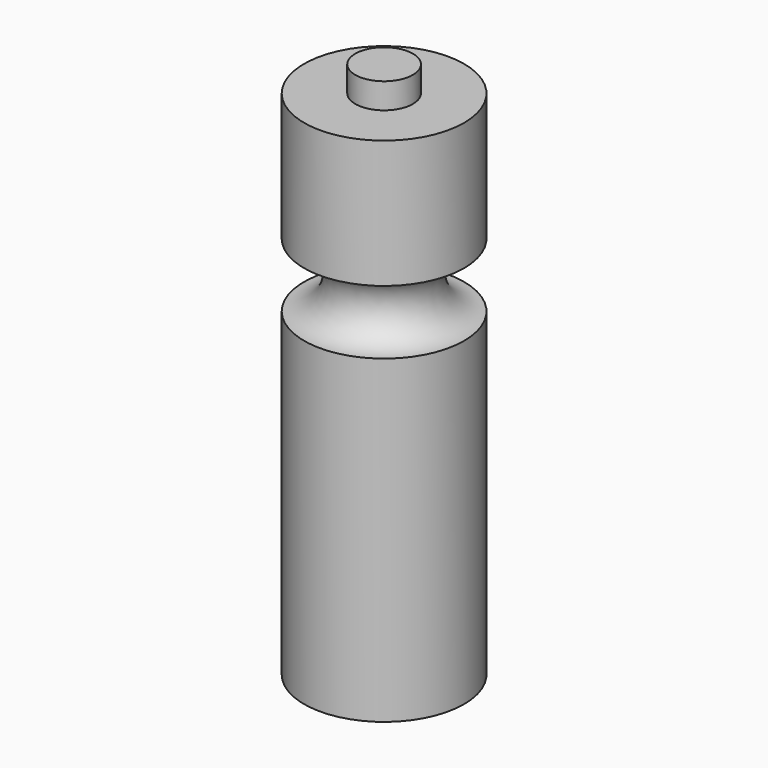
from build123d import *

# Parameters (mm, degrees)
F2_R     = 11.43
F3_DEPTH = 10.16


with BuildPart() as f1:
    # F0 (on Front) → F1 (revolve)
    with BuildSketch(Plane.XZ):
        with BuildLine():
            Line((-31.75, 0), (0, 0))
            Line((0, 0), (0, 127))
            ThreePointArc((0, 127), (-12.7, 139.7), (0, 152.4))
            Line((0, 152.4), (0, 203.2))
            Line((0, 203.2), (-31.75, 203.2))
            Line((-31.75, 203.2), (-31.75, 0))
        make_face()
    revolve(axis=Axis((-31.75, 0, 101.6), (0, 0, -1)))

    # F2 (on face) → F3 (join)
    with BuildSketch(Plane.XY.offset(203.2)):
        with Locations((-31.75, 0)):
            Circle(F2_R)
    extrude(amount=F3_DEPTH)


solid = f1.part
